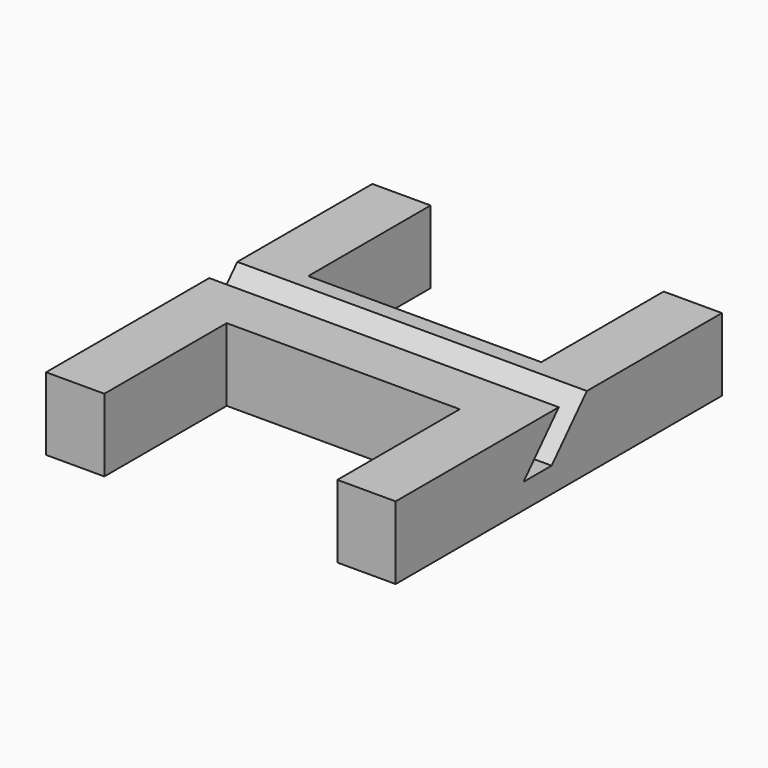
from build123d import *

# Parameters (mm, degrees)
F1_DEPTH = 25
F4_DEPTH = 166.4


with BuildPart() as f1:
    # F0 (on Top) → F1 (new body)
    with BuildSketch(Plane.XY):
        Polygon((-40, 17.5), (-40, 70), (-60, 70), (-60, -70), (-40, -70), (-40, -17.5), (0, -17.5), (0, 4.859984), (0, 17.5), align=None)
    extrude(amount=F1_DEPTH)

    # F2: F1 across plane


with BuildPart() as f1_1:
    add(f1.part)
    add(f1.part.mirror(Plane.YZ))

    # F3 (on face) → F4 (cut)
    with BuildSketch(Plane.YZ.offset(60)):
        Polygon((12.05619, 25), (0, 25), (-15.134365, 8.593241), (-3.078176, 8.593241), align=None)
    extrude(amount=-F4_DEPTH, mode=Mode.SUBTRACT)


solid = f1_1.part
